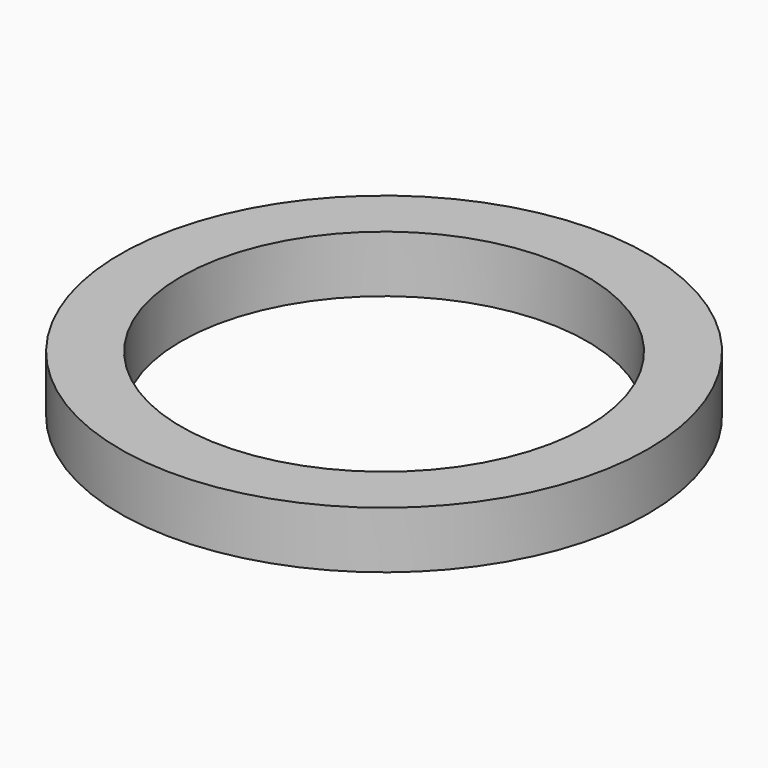
from build123d import *

# Parameters (mm, degrees)
SKETCH_R   = 32.5
SKETCH_R_2 = 25
PAD_DEPTH  = 7


with BuildPart() as part:
    # Sketch → Pad (new body)
    with BuildSketch(Plane.XY):
        Circle(SKETCH_R)
        Circle(SKETCH_R_2, mode=Mode.SUBTRACT)
    extrude(amount=PAD_DEPTH)


solid = part.part
